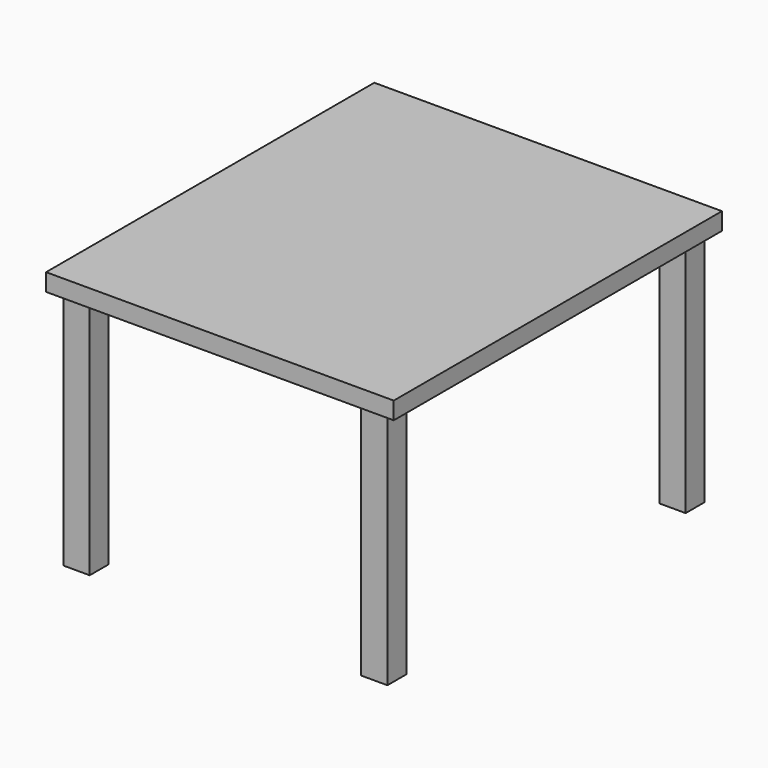
from build123d import *

# Parameters (mm, degrees)
F0_W     = 1000
F0_H     = 1180
F1_DEPTH = 50
F2_W     = 75.779855
F2_H     = 68.201781
F3_DEPTH = 690


with BuildPart() as f1:
    # F0 (on Top) → F1 (new body)
    with BuildSketch(Plane.XY):
        Rectangle(F0_W, F0_H)
    extrude(amount=-F1_DEPTH)

    # F2 (on face) → F3 (join)
    with BuildSketch(Plane(origin=(0, 0, -50), x_dir=(1, 0, 0), z_dir=(0, 0, -1))):
        with Locations((-428.155958, 536.142171)):
            Rectangle(F2_W, F2_H)
        with Locations((428.155958, 536.142171)):
            Rectangle(F2_W, F2_H)
        with Locations((428.155958, -536.142171)):
            Rectangle(F2_W, F2_H)
        with Locations((-428.155958, -536.142171)):
            Rectangle(F2_W, F2_H)
    extrude(amount=F3_DEPTH)


solid = f1.part
